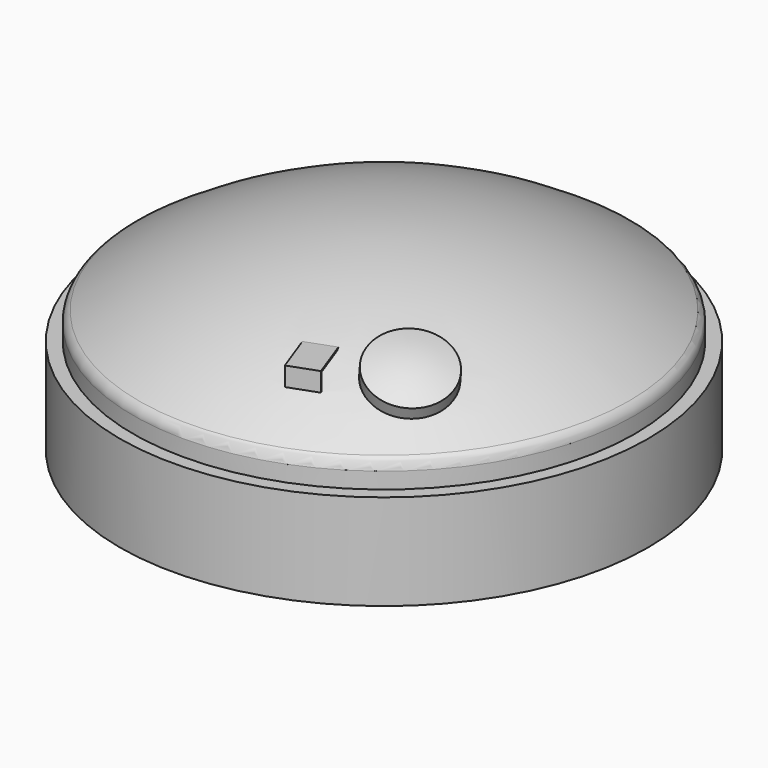
from build123d import *

# Parameters (mm, degrees)
F7_DEPTH = 114.3


with BuildPart() as f1:
    # F0 (on Front) → F1 (revolve)
    with BuildSketch(Plane.XZ):
        with BuildLine():
            ThreePointArc((1930.4, 861.0508346252), (1918.5605657782, 908.6491626543), (1885.8015584416, 945.1542372628))
            ThreePointArc((1885.8015584416, 945.1542372628), (986.3201730244, 1376.0316575992), (0, 1524))
            Line((0, 1524), (0, 0))
            Line((0, 0), (2032, 0))
            Line((2032, 0), (2032, 736.6))
            Line((2032, 736.6), (1930.4, 736.6))
            Line((1930.4, 736.6), (1930.4, 861.0508346252))
        make_face()
    revolve(axis=Axis((0, 0, 921.9542145729), (0, 0, 1)))

    # F3 (on line) → F4 (revolve)
    with BuildSketch(Plane(origin=(0, 0, 0), x_dir=(0.7071067812, -0.7071067812, 0), z_dir=(-0.7071067812, -0.7071067812, 0))):
        with BuildLine():
            Line((1162.4137766435, 1424.2400118495), (1120.0123857464, 1331.9108070983))
            Line((1120.0123857464, 1331.9108070983), (1397, 1204.7066344069))
            Line((1397, 1204.7066344069), (1461.9796076987, 1346.2))
            ThreePointArc((1461.9796076987, 1346.2), (1315.6327838789, 1398.4098510263), (1162.4137766435, 1424.2400118495))
        make_face()
    revolve(axis=Axis((1040.2953547308, -1040.2953547308, 1366.2770060086), (0.2951014866, -0.2951014866, 0.9087520153)))

    # F6 (on line) → F7 (join, symmetric)
    with BuildSketch(Plane(origin=(0, 0, 0), x_dir=(0.3420201433, -0.9396926208, 0), z_dir=(-0.9396926208, -0.3420201433, 0))):
        Polygon((1524, 1304.8592322184), (1193.8, 1304.8592322184), (1193.8, 1292.1592322184), (1511.3, 1292.1592322184), (1511.3, 1158.6534932249), (1524, 1158.6534932249), align=None)
    extrude(amount=F7_DEPTH, both=True)


solid = f1.part
